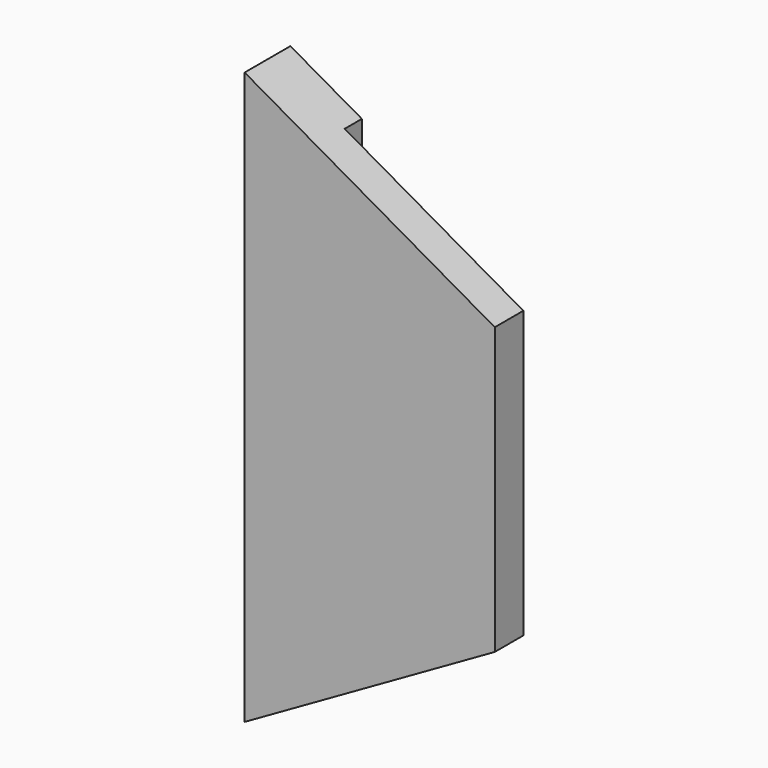
from build123d import *

# Parameters (mm, degrees)
SKETCH043_W      = 6
SKETCH043_H      = 16
EXTRUDE052_DEPTH = 1.6
EXTRUDE_DEPTH    = 1.6


with BuildPart() as extrude052:
    # Sketch043 → Extrude052 (new body)
    with BuildSketch(Plane.XZ.offset(-4.3)):
        with Locations((35, 12)):
            Rectangle(SKETCH043_W, SKETCH043_H)
    extrude(amount=EXTRUDE052_DEPTH)


with BuildPart() as body005:
    # Sketch → Extrude (new body)
    with BuildSketch(Plane.XZ.offset(-5.3)):
        Polygon((37, 16), (37, 8), (30, 4), (30, 20), align=None)
    extrude(amount=EXTRUDE_DEPTH)

    # Cut028: cut Extrude052
    add(extrude052.part, mode=Mode.SUBTRACT)


with BuildPart() as switch_protector001:
    # Part__Mirroring005: instance of Body005
    add(body005.part.mirror(Plane(origin=(0, 0, 0), x_dir=(1, 0, 0), z_dir=(0, 1, 0))))


solid = switch_protector001.part
